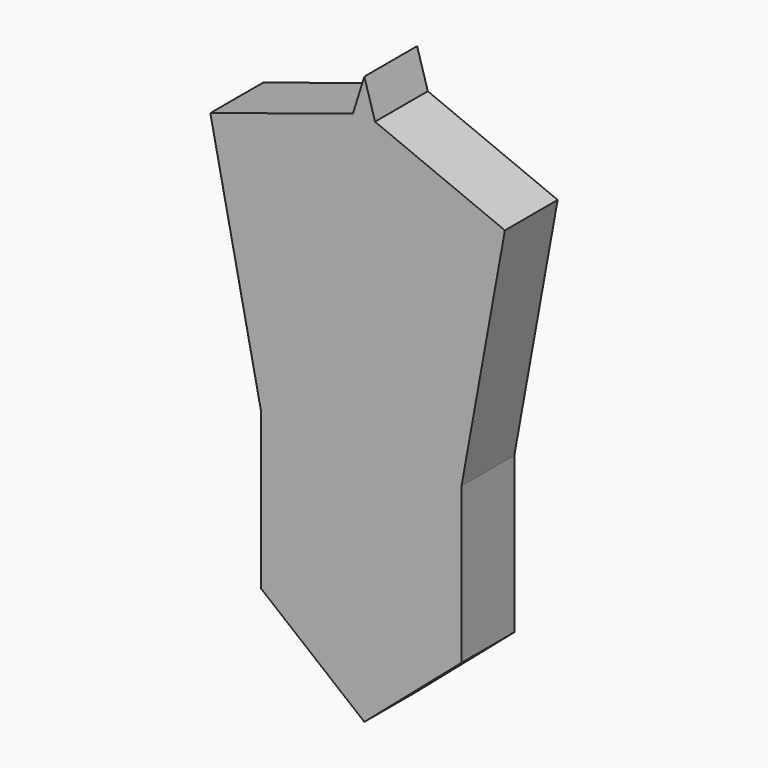
from build123d import *

# Parameters (mm, degrees)
F1_DEPTH = 12.7


with BuildPart() as f1:
    # F0 (on Front) → F1 (new body)
    with BuildSketch(Plane.XZ):
        Polygon((-2.188692, 56.338832), (-19.858597, 0), (-19.858597, -29.931799), (0, -46.048924), (18.707374, -29.931799), (18.707374, 0), (2.061811, 56.338832), align=None)
        Polygon((-29.643994, 47.487948), (-19.858597, 0), (-2.188692, 56.338832), align=None)
        Polygon((0, 63.317269), (-2.188692, 56.338832), (2.061811, 56.338832), align=None)
        Polygon((27.05374, 46.048924), (2.061811, 56.338832), (18.707374, 0), align=None)
    extrude(amount=F1_DEPTH)


solid = f1.part
